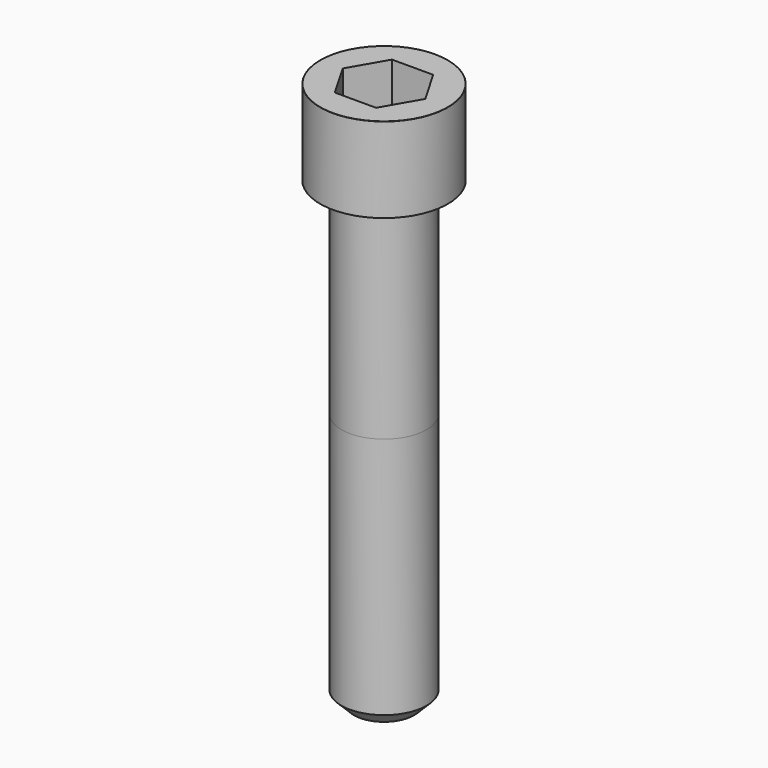
from build123d import *

# Parameters (mm, degrees)
POCKET_DEPTH = 10.07


with BuildPart() as part:
    # Sketch → Revolve (revolve)
    with BuildSketch(Plane.YZ):
        with BuildLine():
            Line((5.999, 0), (9, 0))
            Line((9, 0), (9, 11.97229))
            ThreePointArc((9, 11.97229), (8.991884, 11.991884), (8.97229, 12))
            Line((8.97229, 12), (0, 12))
            Line((0, -65), (0, 12))
            Line((4.25, -65), (0, -65))
            Line((6, -63.25), (4.25, -65))
            Line((6, -29), (6, -63.25))
            Line((5.999, 0), (6, -29))
        make_face()
    revolve(axis=Axis((0, 0, 0), (0, 0, 1)))

    # Sketch001 → Pocket (cut)
    with BuildSketch(Plane.XY.offset(12)):
        Polygon((5.813917, 0), (2.906959, 5.035), (-2.906959, 5.035), (-5.813917, 0), (-2.906959, -5.035), (2.906959, -5.035), align=None)
    extrude(amount=-POCKET_DEPTH, mode=Mode.SUBTRACT)


solid = part.part
